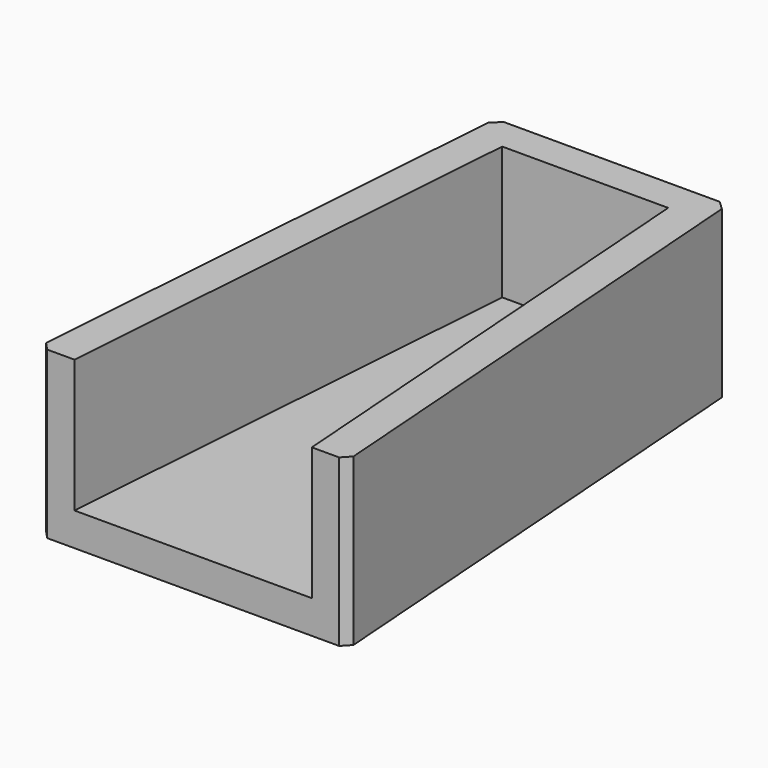
from build123d import *

# Parameters (mm, degrees)
PAD_DEPTH      = 8
PAD_DEPTH_BACK = 2
POCKET_DEPTH   = 8.001
CHAMFER_SIZE   = 0.5


with BuildPart() as part:
    # Sketch001 → Pad (new body, two sides)
    with BuildSketch(Plane.XY) as pad_sk:
        Polygon((-9.295655, 0), (-7, 31.521814), (7, 31.521814), (9.295655, 0), align=None)
    extrude(amount=PAD_DEPTH)
    extrude(pad_sk.sketch, amount=-PAD_DEPTH_BACK)

    # Sketch → Pocket (cut, through all)
    with BuildSketch(Plane.XY):
        Polygon((-7.15, 0), (-5, 29.521814), (5, 29.521814), (7.15, 0), align=None)
    extrude(amount=POCKET_DEPTH, mode=Mode.SUBTRACT)

    # Chamfer
    chamfer_edges = [part.edges().sort_by_distance(p)[0] for p in [
        (7, 31.521814, 3),
        (-7, 31.521814, 3),
        (-9.295655, 0, 3),
        (9.295655, 0, 3),
    ]]
    chamfer(chamfer_edges, length=CHAMFER_SIZE)


solid = part.part
